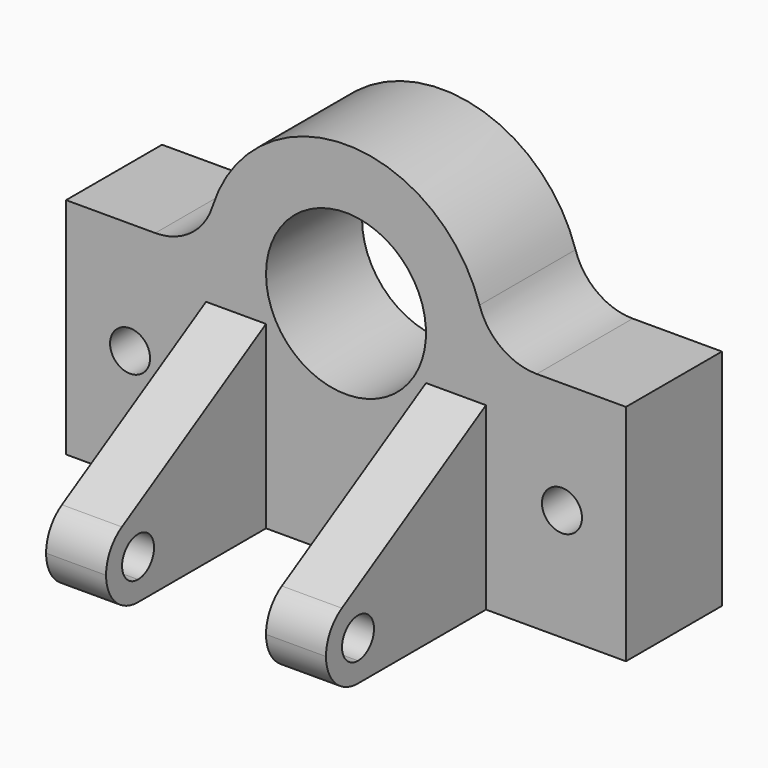
from build123d import *

# Parameters (mm, degrees)
F1_DEPTH = 30
F2_R     = 15
F3_R     = 5
F4_DEPTH = 72
F6_DEPTH = 60
F8_DEPTH = 51.3


with BuildPart() as f1:
    # F0 (on Front) → F1 (new body)
    with BuildSketch(Plane.XZ):
        with BuildLine():
            Line((70, -28), (70, 28))
            Line((70, 28), (35, 28))
            ThreePointArc((35, 28), (0, -7), (-35, 28))
            Line((-35, 28), (-70, 28))
            Line((-70, 28), (-70, -28))
            Line((-70, -28), (70, -28))
        make_face()
        with BuildLine():
            ThreePointArc((-35, 28), (0, -7), (35, 28))
            Line((35, 28), (20, 28))
            ThreePointArc((20, 28), (0, 8), (-20, 28))
            Line((-20, 28), (-35, 28))
        make_face()
        with BuildLine():
            Line((20, 28), (35, 28))
            ThreePointArc((35, 28), (0, 63), (-35, 28))
            Line((-35, 28), (-20, 28))
            ThreePointArc((-20, 28), (0, 48), (20, 28))
        make_face()
    extrude(amount=F1_DEPTH)

    # F2
    f2_edges = [f1.edges().sort_by_distance(p)[0] for p in [
        (-35, -15, 28),
        (35, -15, 28),
    ]]
    fillet(f2_edges, radius=F2_R)

    # F3 (on face) → F4 (cut)
    with BuildSketch(Plane.XZ.offset(30)):
        with BuildLine():
            ThreePointArc((-49, 0), (-54, 5), (-59, 0))
            ThreePointArc((-59, 0), (-54, -5), (-49, 0))
        make_face()
        with Locations((54, 0)):
            Circle(F3_R)
    extrude(amount=-F4_DEPTH, mode=Mode.SUBTRACT)

    # F5 (on face) → F6 (join)
    with BuildSketch(Plane.XZ.offset(30)):
        Polygon((-35, 17), (-35, 0), (-35, -28), (-20, -28), (-20, 17), align=None)
    extrude(amount=F6_DEPTH)

    # F7 (on face) → F8 (cut)
    with BuildSketch(Plane(origin=(-35, 0, 0), x_dir=(0, -1, 0), z_dir=(-1, 0, 0))):
        with BuildLine():
            Line((90, 17), (30, 17))
            Line((30, 17), (75.0515173064, -9.369694507))
            ThreePointArc((75.0515173064, -9.369694507), (78.6751130559, -13.0258253481), (80, -18))
            ThreePointArc((80, -18), (77.0710678119, -25.0710678119), (70, -28))
            Line((70, -28), (90, -28))
            Line((90, -28), (90, 17))
        make_face()
        with BuildLine():
            ThreePointArc((70, -13), (65, -18), (70, -23))
            Line((70, -23), (70, -13))
        make_face()
        with BuildLine():
            Line((70, -13), (70, -23))
            ThreePointArc((70, -23), (73.5355339059, -21.5355339059), (75, -18))
            ThreePointArc((75, -18), (73.5355339059, -14.4644660941), (70, -13))
        make_face()
    extrude(amount=-F8_DEPTH, mode=Mode.SUBTRACT)

    # F9: F1 across plane


with BuildPart() as f1_1:
    add(f1.part)
    add(f1.part.mirror(Plane.YZ))


solid = f1_1.part
